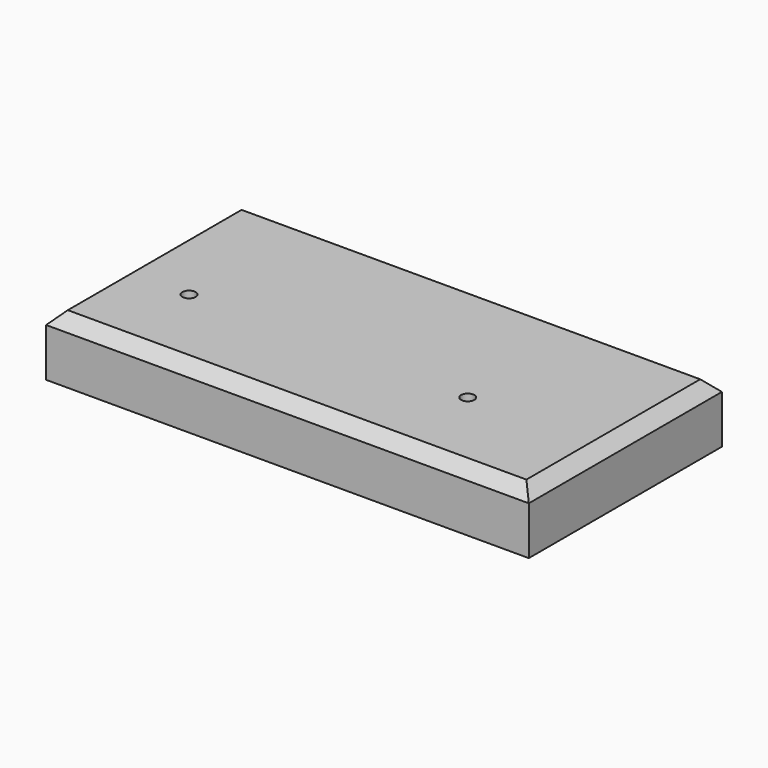
from build123d import *

# Parameters (mm, degrees)
F0_W     = 200
F0_H     = 100
F1_DEPTH = 25
F3_D     = 5.5
F4_SIZE  = 5


with BuildPart() as f1:
    # F0 (on Top) → F1 (new body)
    with BuildSketch(Plane.XY):
        Rectangle(F0_W, F0_H)
    extrude(amount=F1_DEPTH)

    # F3 (through all)
    with Locations(Plane.XY.offset(25)):
        with Locations((-71.2278261781, -11.9269927964), (44.2334078252, -11.9269927964)):
            Hole(F3_D / 2)

    # F4
    f4_edges = [f1.edges().sort_by_distance(p)[0] for p in [
        (0, -50, 25),
        (-100, 0, 25),
        (0, 50, 25),
        (100, 0, 25),
    ]]
    chamfer(f4_edges, length=F4_SIZE)


solid = f1.part
